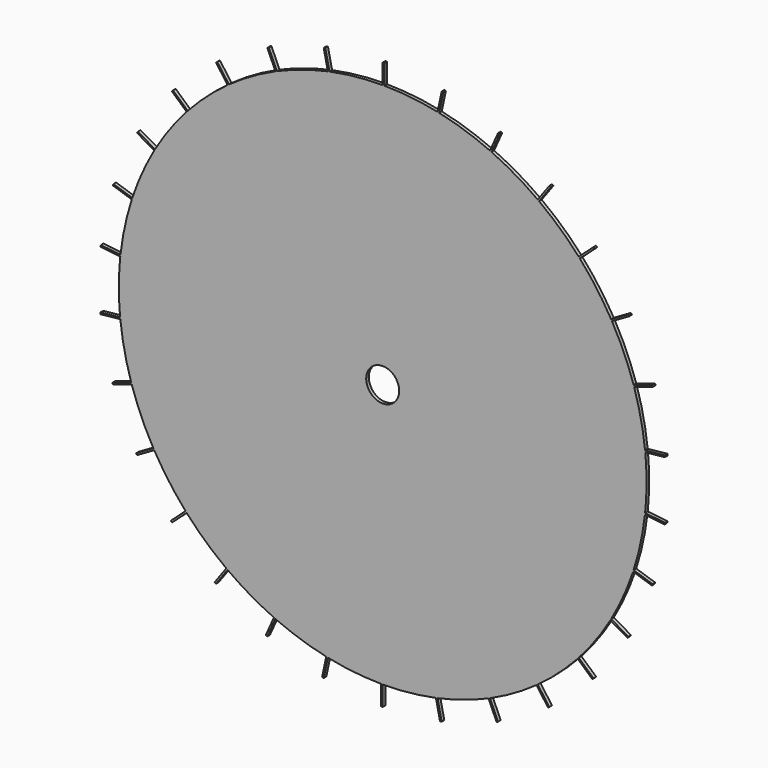
from build123d import *

# Parameters (mm, degrees)
F1_DEPTH = 1.27


with BuildPart() as f1:
    # F0 (on Front) → F1 (new body)
    with BuildSketch(Plane.XZ):
        with BuildLine():
            Line((0.635, 109.2315465212), (0, 109.2315465212))
            Line((0, 109.2315465212), (0, 101.6))
            ThreePointArc((0, 101.6), (0.3175015503, 101.5995039002), (0.635, 101.5980156056))
            Line((0.635, 101.5980156056), (0.635, 109.2315465212))
        make_face()
        with BuildLine():
            ThreePointArc((0.635, 101.5980156056), (0.3175015503, 101.5995039002), (0, 101.6))
            Line((0, 101.6), (0, 92.9539054632))
            Line((0, 92.9539054632), (0.635, 92.9539054632))
            Line((0.635, 92.9539054632), (0.635, 101.5980156056))
        make_face()
        with BuildLine():
            Line((0, 92.9539054632), (0, 101.6))
            ThreePointArc((0, 101.6), (-10.3042777678, 101.0761191364), (-20.5022914818, 99.5098791276))
            Line((-20.5022914818, 99.5098791276), (-18.7050799265, 91.0546635314))
            Line((-18.7050799265, 91.0546635314), (-19.326203653, 90.9226396077))
            Line((-19.326203653, 90.9226396077), (-21.1238277871, 99.3797962346))
            ThreePointArc((-21.1238277871, 99.3797962346), (-31.0940114069, 96.7249836114), (-40.743534445, 93.0726834304))
            Line((-40.743534445, 93.0726834304), (-37.2276581033, 85.1758958744))
            Line((-37.2276581033, 85.1758958744), (-37.8077594689, 84.9176181061))
            Line((-37.8077594689, 84.9176181061), (-41.3244429365, 92.8162184965))
            ThreePointArc((-41.3244429365, 92.8162184965), (-50.5247875418, 88.1465021646), (-59.2040894437, 82.5677648549))
            Line((-59.2040894437, 82.5677648549), (-54.1232089828, 75.5745328485))
            Line((-54.1232089828, 75.5745328485), (-54.6369347743, 75.2012892133))
            Line((-54.6369347743, 75.2012892133), (-59.7189816329, 82.1961266285))
            ThreePointArc((-59.7189816329, 82.1961266285), (-67.7473880163, 75.7155955994), (-75.0771416411, 68.4542387512))
            Line((-75.0771416411, 68.4542387512), (-68.6533159179, 62.6702000902))
            Line((-68.6533159179, 62.6702000902), (-69.0782138529, 62.198303126))
            Line((-69.0782138529, 62.198303126), (-75.5035142685, 67.9836696061))
            ThreePointArc((-75.5035142685, 67.9836696061), (-82.0091025465, 59.9755541827), (-87.6689624886, 51.3489339342))
            Line((-87.6689624886, 51.3489339342), (-80.1829435121, 47.026878863))
            Line((-80.1829435121, 47.026878863), (-80.5004435121, 46.4769527316))
            Line((-80.5004435121, 46.4769527316), (-87.9881810245, 50.8))
            ThreePointArc((-87.9881810245, 50.8), (-92.686625772, 41.6142932536), (-96.429228993, 31.9994343048))
            Line((-96.429228993, 31.9994343048), (-88.2081917144, 29.3282573695))
            Line((-88.2081917144, 29.3282573695), (-88.4044175059, 28.7243364817))
            Line((-88.4044175059, 28.7243364817), (-96.6273420556, 31.3961266285))
            ThreePointArc((-96.6273420556, 31.3961266285), (-99.3132986916, 21.4342880218), (-100.9750754716, 11.2514058459))
            Line((-100.9750754716, 11.2514058459), (-92.378318669, 10.3478502964))
            Line((-92.378318669, 10.3478502964), (-92.4446942432, 9.7163288928))
            Line((-92.4446942432, 9.7163288928), (-101.0434245694, 10.620091868))
            ThreePointArc((-101.0434245694, 10.620091868), (-101.4607607311, 5.3173331543), (-101.6, 0))
            Line((-101.6, 0), (-6.35, 0))
            ThreePointArc((-6.35, 0), (-4.4901280605, 4.4901280605), (0, 6.35))
            Line((0, 6.35), (0, 92.9539054632))
        make_face()
        with BuildLine():
            Line((0.635, 92.9539054632), (0, 92.9539054632))
            Line((0, 92.9539054632), (0, 6.35))
            ThreePointArc((0, 6.35), (4.4901280605, 4.4901280605), (6.35, 0))
            Line((6.35, 0), (101.6, 0))
            ThreePointArc((101.6, 0), (101.4768820584, 5.0002407649), (101.1078266199, 9.9883630387))
            Line((101.1078266199, 9.9883630387), (92.5110698173, 9.0848074892))
            Line((92.5110698173, 9.0848074892), (92.4446942432, 9.7163288928))
            Line((92.4446942432, 9.7163288928), (101.0434245694, 10.620091868))
            ThreePointArc((101.0434245694, 10.620091868), (99.4453232599, 20.8131612625), (96.8216805758, 30.7915925291))
            Line((96.8216805758, 30.7915925291), (88.6006432973, 28.1204155938))
            Line((88.6006432973, 28.1204155938), (88.4044175059, 28.7243364817))
            Line((88.4044175059, 28.7243364817), (96.6273420556, 31.3961266285))
            ThreePointArc((96.6273420556, 31.3961266285), (92.9449048015, 41.0341890554), (88.3039624886, 50.2490816714))
            Line((88.3039624886, 50.2490816714), (80.8179435121, 45.9270266002))
            Line((80.8179435121, 45.9270266002), (80.5004435121, 46.4769527316))
            Line((80.5004435121, 46.4769527316), (87.9881810245, 50.8))
            ThreePointArc((87.9881810245, 50.8), (82.3823480042, 59.4618258828), (75.9269375111, 67.5104448229))
            Line((75.9269375111, 67.5104448229), (69.5031117879, 61.7264061618))
            Line((69.5031117879, 61.7264061618), (69.0782138529, 62.198303126))
            Line((69.0782138529, 62.198303126), (75.5035142685, 67.9836696061))
            ThreePointArc((75.5035142685, 67.9836696061), (68.2192872847, 75.2906955896), (60.2315410266, 81.8212775845))
            Line((60.2315410266, 81.8212775845), (55.1506605657, 74.8280455781))
            Line((55.1506605657, 74.8280455781), (54.6369347743, 75.2012892133))
            Line((54.6369347743, 75.2012892133), (59.7189816329, 82.1961266285))
            ThreePointArc((59.7189816329, 82.1961266285), (51.0747163584, 87.8290006143), (41.9037371762, 92.5561278937))
            Line((41.9037371762, 92.5561278937), (38.3878608345, 84.6593403377))
            Line((38.3878608345, 84.6593403377), (37.8077594689, 84.9176181061))
            Line((37.8077594689, 84.9176181061), (41.3244429365, 92.8162184965))
            ThreePointArc((41.3244429365, 92.8162184965), (31.6979352436, 96.5287568618), (21.7445389348, 99.2458312803))
            Line((21.7445389348, 99.2458312803), (19.9473273794, 90.790615684))
            Line((19.9473273794, 90.790615684), (19.326203653, 90.9226396077))
            Line((19.326203653, 90.9226396077), (21.1238277871, 99.3797962346))
            ThreePointArc((21.1238277871, 99.3797962346), (10.9358022551, 101.0097432382), (0.635, 101.5980156056))
            Line((0.635, 101.5980156056), (0.635, 92.9539054632))
        make_face()
        with BuildLine():
            Line((-18.7050799265, 91.0546635314), (-20.5022914818, 99.5098791276))
            ThreePointArc((-20.5022914818, 99.5098791276), (-20.8131612625, 99.4453232599), (-21.1238277871, 99.3797962346))
            Line((-21.1238277871, 99.3797962346), (-19.326203653, 90.9226396077))
            Line((-19.326203653, 90.9226396077), (-18.7050799265, 91.0546635314))
        make_face()
        with BuildLine():
            ThreePointArc((-21.1238277871, 99.3797962346), (-20.8131612625, 99.4453232599), (-20.5022914818, 99.5098791276))
            Line((-20.5022914818, 99.5098791276), (-22.0893918014, 106.9765990778))
            Line((-22.0893918014, 106.9765990778), (-22.7105155279, 106.8445751541))
            Line((-22.7105155279, 106.8445751541), (-21.1238277871, 99.3797962346))
        make_face()
        with BuildLine():
            Line((22.7105155279, 106.8445751541), (21.1238277871, 99.3797962346))
            ThreePointArc((21.1238277871, 99.3797962346), (21.4342880218, 99.3132986916), (21.7445389348, 99.2458312803))
            Line((21.7445389348, 99.2458312803), (23.3316392543, 106.7125512305))
            Line((23.3316392543, 106.7125512305), (22.7105155279, 106.8445751541))
        make_face()
        with BuildLine():
            ThreePointArc((21.7445389348, 99.2458312803), (21.4342880218, 99.3132986916), (21.1238277871, 99.3797962346))
            Line((21.1238277871, 99.3797962346), (19.326203653, 90.9226396077))
            Line((19.326203653, 90.9226396077), (19.9473273794, 90.790615684))
            Line((19.9473273794, 90.790615684), (21.7445389348, 99.2458312803))
        make_face()
        with BuildLine():
            Line((101.6, 0), (6.35, 0))
            ThreePointArc((6.35, 0), (4.4901280605, -4.4901280605), (0, -6.35))
            Line((0, -6.35), (0, -92.9539054632))
            Line((0, -92.9539054632), (0, -101.6))
            ThreePointArc((0, -101.6), (10.3042777678, -101.0761191364), (20.5022914818, -99.5098791276))
            Line((20.5022914818, -99.5098791276), (18.7050799265, -91.0546635314))
            Line((18.7050799265, -91.0546635314), (19.326203653, -90.9226396077))
            Line((19.326203653, -90.9226396077), (21.1238277871, -99.3797962346))
            ThreePointArc((21.1238277871, -99.3797962346), (31.0940114069, -96.7249836114), (40.743534445, -93.0726834304))
            Line((40.743534445, -93.0726834304), (37.2276581033, -85.1758958744))
            Line((37.2276581033, -85.1758958744), (37.8077594689, -84.9176181061))
            Line((37.8077594689, -84.9176181061), (41.3244429365, -92.8162184965))
            ThreePointArc((41.3244429365, -92.8162184965), (50.5247875418, -88.1465021646), (59.2040894437, -82.5677648549))
            Line((59.2040894437, -82.5677648549), (54.1232089828, -75.5745328485))
            Line((54.1232089828, -75.5745328485), (54.6369347743, -75.2012892133))
            Line((54.6369347743, -75.2012892133), (59.7189816329, -82.1961266285))
            ThreePointArc((59.7189816329, -82.1961266285), (67.7473880163, -75.7155955994), (75.0771416411, -68.4542387512))
            Line((75.0771416411, -68.4542387512), (68.6533159179, -62.6702000902))
            Line((68.6533159179, -62.6702000902), (69.0782138529, -62.198303126))
            Line((69.0782138529, -62.198303126), (75.5035142685, -67.9836696061))
            ThreePointArc((75.5035142685, -67.9836696061), (82.0091025465, -59.9755541827), (87.6689624886, -51.3489339342))
            Line((87.6689624886, -51.3489339342), (80.1829435121, -47.026878863))
            Line((80.1829435121, -47.026878863), (80.5004435121, -46.4769527316))
            Line((80.5004435121, -46.4769527316), (87.9881810245, -50.8))
            ThreePointArc((87.9881810245, -50.8), (92.686625772, -41.6142932536), (96.429228993, -31.9994343048))
            Line((96.429228993, -31.9994343048), (88.2081917144, -29.3282573695))
            Line((88.2081917144, -29.3282573695), (88.4044175059, -28.7243364817))
            Line((88.4044175059, -28.7243364817), (96.6273420556, -31.3961266285))
            ThreePointArc((96.6273420556, -31.3961266285), (99.3132986916, -21.4342880218), (100.9750754716, -11.2514058459))
            Line((100.9750754716, -11.2514058459), (92.378318669, -10.3478502964))
            Line((92.378318669, -10.3478502964), (92.4446942432, -9.7163288928))
            Line((92.4446942432, -9.7163288928), (101.0434245694, -10.620091868))
            ThreePointArc((101.0434245694, -10.620091868), (101.4607607311, -5.3173331543), (101.6, 0))
        make_face()
        with BuildLine():
            ThreePointArc((0, -6.35), (-4.4901280605, -4.4901280605), (-6.35, 0))
            Line((-6.35, 0), (-101.6, 0))
            ThreePointArc((-101.6, 0), (-101.4768820584, -5.0002407649), (-101.1078266199, -9.9883630387))
            Line((-101.1078266199, -9.9883630387), (-92.5110698173, -9.0848074892))
            Line((-92.5110698173, -9.0848074892), (-92.4446942432, -9.7163288928))
            Line((-92.4446942432, -9.7163288928), (-101.0434245694, -10.620091868))
            ThreePointArc((-101.0434245694, -10.620091868), (-99.4453232599, -20.8131612625), (-96.8216805758, -30.7915925291))
            Line((-96.8216805758, -30.7915925291), (-88.6006432973, -28.1204155938))
            Line((-88.6006432973, -28.1204155938), (-88.4044175059, -28.7243364817))
            Line((-88.4044175059, -28.7243364817), (-96.6273420556, -31.3961266285))
            ThreePointArc((-96.6273420556, -31.3961266285), (-92.9449048015, -41.0341890554), (-88.3039624886, -50.2490816714))
            Line((-88.3039624886, -50.2490816714), (-80.8179435121, -45.9270266002))
            Line((-80.8179435121, -45.9270266002), (-80.5004435121, -46.4769527316))
            Line((-80.5004435121, -46.4769527316), (-87.9881810245, -50.8))
            ThreePointArc((-87.9881810245, -50.8), (-82.3823480042, -59.4618258828), (-75.9269375111, -67.5104448229))
            Line((-75.9269375111, -67.5104448229), (-69.5031117879, -61.7264061618))
            Line((-69.5031117879, -61.7264061618), (-69.0782138529, -62.198303126))
            Line((-69.0782138529, -62.198303126), (-75.5035142685, -67.9836696061))
            ThreePointArc((-75.5035142685, -67.9836696061), (-68.2192872847, -75.2906955896), (-60.2315410266, -81.8212775845))
            Line((-60.2315410266, -81.8212775845), (-55.1506605657, -74.8280455781))
            Line((-55.1506605657, -74.8280455781), (-54.6369347743, -75.2012892133))
            Line((-54.6369347743, -75.2012892133), (-59.7189816329, -82.1961266285))
            ThreePointArc((-59.7189816329, -82.1961266285), (-51.0747163584, -87.8290006143), (-41.9037371762, -92.5561278937))
            Line((-41.9037371762, -92.5561278937), (-38.3878608345, -84.6593403377))
            Line((-38.3878608345, -84.6593403377), (-37.8077594689, -84.9176181061))
            Line((-37.8077594689, -84.9176181061), (-41.3244429365, -92.8162184965))
            ThreePointArc((-41.3244429365, -92.8162184965), (-31.6979352436, -96.5287568618), (-21.7445389348, -99.2458312803))
            Line((-21.7445389348, -99.2458312803), (-19.9473273794, -90.790615684))
            Line((-19.9473273794, -90.790615684), (-19.326203653, -90.9226396077))
            Line((-19.326203653, -90.9226396077), (-21.1238277871, -99.3797962346))
            ThreePointArc((-21.1238277871, -99.3797962346), (-10.935802255, -101.0097432382), (-0.635, -101.5980156056))
            Line((-0.635, -101.5980156056), (-0.635, -92.9539054632))
            Line((-0.635, -92.9539054632), (0, -92.9539054632))
            Line((0, -92.9539054632), (0, -6.35))
        make_face()
        with BuildLine():
            Line((-37.2276581033, 85.1758958744), (-40.743534445, 93.0726834304))
            ThreePointArc((-40.743534445, 93.0726834304), (-41.0341890554, 92.9449048015), (-41.3244429365, 92.8162184965))
            Line((-41.3244429365, 92.8162184965), (-37.8077594689, 84.9176181061))
            Line((-37.8077594689, 84.9176181061), (-37.2276581033, 85.1758958744))
        make_face()
        with BuildLine():
            ThreePointArc((-41.3244429365, 92.8162184965), (-41.0341890554, 92.9449048015), (-40.743534445, 93.0726834304))
            Line((-40.743534445, 93.0726834304), (-43.8483711844, 100.0462609241))
            Line((-43.8483711844, 100.0462609241), (-44.42847255, 99.7879831557))
            Line((-44.42847255, 99.7879831557), (-41.3244429365, 92.8162184965))
        make_face()
        with BuildLine():
            Line((44.42847255, 99.7879831557), (41.3244429365, 92.8162184965))
            ThreePointArc((41.3244429365, 92.8162184965), (41.6142932536, 92.686625772), (41.9037371762, 92.5561278937))
            Line((41.9037371762, 92.5561278937), (45.0085739156, 99.5297053874))
            Line((45.0085739156, 99.5297053874), (44.42847255, 99.7879831557))
        make_face()
        with BuildLine():
            ThreePointArc((41.9037371762, 92.5561278937), (41.6142932536, 92.686625772), (41.3244429365, 92.8162184965))
            Line((41.3244429365, 92.8162184965), (37.8077594689, 84.9176181061))
            Line((37.8077594689, 84.9176181061), (38.3878608345, 84.6593403377))
            Line((38.3878608345, 84.6593403377), (41.9037371762, 92.5561278937))
        make_face()
        with BuildLine():
            Line((0, -101.6), (0, -92.9539054632))
            Line((0, -92.9539054632), (-0.635, -92.9539054632))
            Line((-0.635, -92.9539054632), (-0.635, -101.5980156056))
            ThreePointArc((-0.635, -101.5980156056), (-0.3175015503, -101.5995039002), (0, -101.6))
        make_face()
        with BuildLine():
            Line((92.5110698173, 9.0848074892), (101.1078266199, 9.9883630387))
            ThreePointArc((101.1078266199, 9.9883630387), (101.0761191364, 10.3042777678), (101.0434245694, 10.620091868))
            Line((101.0434245694, 10.620091868), (92.4446942432, 9.7163288928))
            Line((92.4446942432, 9.7163288928), (92.5110698173, 9.0848074892))
        make_face()
        with BuildLine():
            ThreePointArc((101.0434245694, 10.620091868), (101.0761191364, 10.3042777678), (101.1078266199, 9.9883630387))
            Line((101.1078266199, 9.9883630387), (108.6995402544, 10.7862842946))
            Line((108.6995402544, 10.7862842946), (108.6331646803, 11.4178056982))
            Line((108.6331646803, 11.4178056982), (101.0434245694, 10.620091868))
        make_face()
        with BuildLine():
            Line((108.6331646803, -11.4178056982), (101.0434245694, -10.620091868))
            ThreePointArc((101.0434245694, -10.620091868), (101.0097432382, -10.935802255), (100.9750754716, -11.2514058459))
            Line((100.9750754716, -11.2514058459), (108.5667891061, -12.0493271018))
            Line((108.5667891061, -12.0493271018), (108.6331646803, -11.4178056982))
        make_face()
        with BuildLine():
            ThreePointArc((100.9750754716, -11.2514058459), (101.0097432382, -10.935802255), (101.0434245694, -10.620091868))
            Line((101.0434245694, -10.620091868), (92.4446942432, -9.7163288928))
            Line((92.4446942432, -9.7163288928), (92.378318669, -10.3478502964))
            Line((92.378318669, -10.3478502964), (100.9750754716, -11.2514058459))
        make_face()
        with BuildLine():
            Line((-108.6331646803, 11.4178056982), (-101.0434245694, 10.620091868))
            ThreePointArc((-101.0434245694, 10.620091868), (-101.0097432382, 10.935802255), (-100.9750754716, 11.2514058459))
            Line((-100.9750754716, 11.2514058459), (-108.5667891061, 12.0493271018))
            Line((-108.5667891061, 12.0493271018), (-108.6331646803, 11.4178056982))
        make_face()
        with BuildLine():
            ThreePointArc((-100.9750754716, 11.2514058459), (-101.0097432382, 10.935802255), (-101.0434245694, 10.620091868))
            Line((-101.0434245694, 10.620091868), (-92.4446942432, 9.7163288928))
            Line((-92.4446942432, 9.7163288928), (-92.378318669, 10.3478502964))
            Line((-92.378318669, 10.3478502964), (-100.9750754716, 11.2514058459))
        make_face()
        with BuildLine():
            Line((-92.5110698173, -9.0848074892), (-101.1078266199, -9.9883630387))
            ThreePointArc((-101.1078266199, -9.9883630387), (-101.0761191364, -10.3042777678), (-101.0434245694, -10.620091868))
            Line((-101.0434245694, -10.620091868), (-92.4446942432, -9.7163288928))
            Line((-92.4446942432, -9.7163288928), (-92.5110698173, -9.0848074892))
        make_face()
        with BuildLine():
            ThreePointArc((-101.0434245694, -10.620091868), (-101.0761191364, -10.3042777678), (-101.1078266199, -9.9883630387))
            Line((-101.1078266199, -9.9883630387), (-108.6995402544, -10.7862842946))
            Line((-108.6995402544, -10.7862842946), (-108.6331646803, -11.4178056982))
            Line((-108.6331646803, -11.4178056982), (-101.0434245694, -10.620091868))
        make_face()
        with BuildLine():
            Line((-54.1232089828, 75.5745328485), (-59.2040894437, 82.5677648549))
            ThreePointArc((-59.2040894437, 82.5677648549), (-59.4618258828, 82.3823480042), (-59.7189816329, 82.1961266285))
            Line((-59.7189816329, 82.1961266285), (-54.6369347743, 75.2012892133))
            Line((-54.6369347743, 75.2012892133), (-54.1232089828, 75.5745328485))
        make_face()
        with BuildLine():
            ThreePointArc((-59.7189816329, 82.1961266285), (-59.4618258828, 82.3823480042), (-59.2040894437, 82.5677648549))
            Line((-59.2040894437, 82.5677648549), (-63.6909663388, 88.7434210927))
            Line((-63.6909663388, 88.7434210927), (-64.2046921303, 88.3701774575))
            Line((-64.2046921303, 88.3701774575), (-59.7189816329, 82.1961266285))
        make_face()
        with BuildLine():
            Line((0, -109.2315465212), (0, -101.6))
            ThreePointArc((0, -101.6), (-0.3175015503, -101.5995039002), (-0.635, -101.5980156056))
            Line((-0.635, -101.5980156056), (-0.635, -109.2315465212))
            Line((-0.635, -109.2315465212), (0, -109.2315465212))
        make_face()
        with BuildLine():
            Line((64.2046921303, 88.3701774575), (59.7189816329, 82.1961266285))
            ThreePointArc((59.7189816329, 82.1961266285), (59.9755541827, 82.0091025465), (60.2315410266, 81.8212775845))
            Line((60.2315410266, 81.8212775845), (64.7184179217, 87.9969338223))
            Line((64.7184179217, 87.9969338223), (64.2046921303, 88.3701774575))
        make_face()
        with BuildLine():
            ThreePointArc((60.2315410266, 81.8212775845), (59.9755541827, 82.0091025465), (59.7189816329, 82.1961266285))
            Line((59.7189816329, 82.1961266285), (54.6369347743, 75.2012892133))
            Line((54.6369347743, 75.2012892133), (55.1506605657, 74.8280455781))
            Line((55.1506605657, 74.8280455781), (60.2315410266, 81.8212775845))
        make_face()
        with BuildLine():
            Line((18.7050799265, -91.0546635314), (20.5022914818, -99.5098791276))
            ThreePointArc((20.5022914818, -99.5098791276), (20.8131612625, -99.4453232599), (21.1238277871, -99.3797962346))
            Line((21.1238277871, -99.3797962346), (19.326203653, -90.9226396077))
            Line((19.326203653, -90.9226396077), (18.7050799265, -91.0546635314))
        make_face()
        with BuildLine():
            ThreePointArc((21.1238277871, -99.3797962346), (20.8131612625, -99.4453232599), (20.5022914818, -99.5098791276))
            Line((20.5022914818, -99.5098791276), (22.0893918014, -106.9765990778))
            Line((22.0893918014, -106.9765990778), (22.7105155279, -106.8445751541))
            Line((22.7105155279, -106.8445751541), (21.1238277871, -99.3797962346))
        make_face()
        with BuildLine():
            Line((88.6006432973, 28.1204155938), (96.8216805758, 30.7915925291))
            ThreePointArc((96.8216805758, 30.7915925291), (96.7249836114, 31.0940114069), (96.6273420556, 31.3961266285))
            Line((96.6273420556, 31.3961266285), (88.4044175059, 28.7243364817))
            Line((88.4044175059, 28.7243364817), (88.6006432973, 28.1204155938))
        make_face()
        with BuildLine():
            ThreePointArc((96.6273420556, 31.3961266285), (96.7249836114, 31.0940114069), (96.8216805758, 30.7915925291))
            Line((96.8216805758, 30.7915925291), (104.0815998954, 33.1504833091))
            Line((104.0815998954, 33.1504833091), (103.885374104, 33.7544041969))
            Line((103.885374104, 33.7544041969), (96.6273420556, 31.3961266285))
        make_face()
        with BuildLine():
            Line((103.885374104, -33.7544041969), (96.6273420556, -31.3961266285))
            ThreePointArc((96.6273420556, -31.3961266285), (96.5287568618, -31.6979352436), (96.429228993, -31.9994343048))
            Line((96.429228993, -31.9994343048), (103.6891483125, -34.3583250848))
            Line((103.6891483125, -34.3583250848), (103.885374104, -33.7544041969))
        make_face()
        with BuildLine():
            ThreePointArc((96.429228993, -31.9994343048), (96.5287568618, -31.6979352436), (96.6273420556, -31.3961266285))
            Line((96.6273420556, -31.3961266285), (88.4044175059, -28.7243364817))
            Line((88.4044175059, -28.7243364817), (88.2081917144, -29.3282573695))
            Line((88.2081917144, -29.3282573695), (96.429228993, -31.9994343048))
        make_face()
        with BuildLine():
            Line((-103.885374104, 33.7544041969), (-96.6273420556, 31.3961266285))
            ThreePointArc((-96.6273420556, 31.3961266285), (-96.5287568618, 31.6979352436), (-96.429228993, 31.9994343048))
            Line((-96.429228993, 31.9994343048), (-103.6891483125, 34.3583250848))
            Line((-103.6891483125, 34.3583250848), (-103.885374104, 33.7544041969))
        make_face()
        with BuildLine():
            ThreePointArc((-96.429228993, 31.9994343048), (-96.5287568618, 31.6979352436), (-96.6273420556, 31.3961266285))
            Line((-96.6273420556, 31.3961266285), (-88.4044175059, 28.7243364817))
            Line((-88.4044175059, 28.7243364817), (-88.2081917144, 29.3282573695))
            Line((-88.2081917144, 29.3282573695), (-96.429228993, 31.9994343048))
        make_face()
        with BuildLine():
            Line((-88.6006432973, -28.1204155938), (-96.8216805758, -30.7915925291))
            ThreePointArc((-96.8216805758, -30.7915925291), (-96.7249836114, -31.0940114069), (-96.6273420556, -31.3961266285))
            Line((-96.6273420556, -31.3961266285), (-88.4044175059, -28.7243364817))
            Line((-88.4044175059, -28.7243364817), (-88.6006432973, -28.1204155938))
        make_face()
        with BuildLine():
            ThreePointArc((-96.6273420556, -31.3961266285), (-96.7249836114, -31.0940114069), (-96.8216805758, -30.7915925291))
            Line((-96.8216805758, -30.7915925291), (-104.0815998954, -33.1504833091))
            Line((-104.0815998954, -33.1504833091), (-103.885374104, -33.7544041969))
            Line((-103.885374104, -33.7544041969), (-96.6273420556, -31.3961266285))
        make_face()
        with BuildLine():
            Line((-68.6533159179, 62.6702000902), (-75.0771416411, 68.4542387512))
            ThreePointArc((-75.0771416411, 68.4542387512), (-75.2906955896, 68.2192872847), (-75.5035142685, 67.9836696061))
            Line((-75.5035142685, 67.9836696061), (-69.0782138529, 62.198303126))
            Line((-69.0782138529, 62.198303126), (-68.6533159179, 62.6702000902))
        make_face()
        with BuildLine():
            ThreePointArc((-75.5035142685, 67.9836696061), (-75.2906955896, 68.2192872847), (-75.0771416411, 68.4542387512))
            Line((-75.0771416411, 68.4542387512), (-80.7499606411, 73.5620679214))
            Line((-80.7499606411, 73.5620679214), (-81.1748585761, 73.0901709572))
            Line((-81.1748585761, 73.0901709572), (-75.5035142685, 67.9836696061))
        make_face()
        with BuildLine():
            Line((-22.7105155279, -106.8445751541), (-21.1238277871, -99.3797962346))
            ThreePointArc((-21.1238277871, -99.3797962346), (-21.4342880218, -99.3132986916), (-21.7445389348, -99.2458312803))
            Line((-21.7445389348, -99.2458312803), (-23.3316392543, -106.7125512305))
            Line((-23.3316392543, -106.7125512305), (-22.7105155279, -106.8445751541))
        make_face()
        with BuildLine():
            ThreePointArc((-21.7445389348, -99.2458312803), (-21.4342880218, -99.3132986916), (-21.1238277871, -99.3797962346))
            Line((-21.1238277871, -99.3797962346), (-19.326203653, -90.9226396077))
            Line((-19.326203653, -90.9226396077), (-19.9473273794, -90.790615684))
            Line((-19.9473273794, -90.790615684), (-21.7445389348, -99.2458312803))
        make_face()
        with BuildLine():
            Line((81.1748585761, 73.0901709572), (75.5035142685, 67.9836696061))
            ThreePointArc((75.5035142685, 67.9836696061), (75.7155955994, 67.7473880163), (75.9269375111, 67.5104448229))
            Line((75.9269375111, 67.5104448229), (81.5997565112, 72.6182739931))
            Line((81.5997565112, 72.6182739931), (81.1748585761, 73.0901709572))
        make_face()
        with BuildLine():
            ThreePointArc((75.9269375111, 67.5104448229), (75.7155955994, 67.7473880163), (75.5035142685, 67.9836696061))
            Line((75.5035142685, 67.9836696061), (69.0782138529, 62.198303126))
            Line((69.0782138529, 62.198303126), (69.5031117879, 61.7264061618))
            Line((69.5031117879, 61.7264061618), (75.9269375111, 67.5104448229))
        make_face()
        with BuildLine():
            Line((37.2276581033, -85.1758958744), (40.743534445, -93.0726834304))
            ThreePointArc((40.743534445, -93.0726834304), (41.0341890554, -92.9449048015), (41.3244429365, -92.8162184965))
            Line((41.3244429365, -92.8162184965), (37.8077594689, -84.9176181061))
            Line((37.8077594689, -84.9176181061), (37.2276581033, -85.1758958744))
        make_face()
        with BuildLine():
            ThreePointArc((41.3244429365, -92.8162184965), (41.0341890554, -92.9449048015), (40.743534445, -93.0726834304))
            Line((40.743534445, -93.0726834304), (43.8483711844, -100.0462609241))
            Line((43.8483711844, -100.0462609241), (44.42847255, -99.7879831557))
            Line((44.42847255, -99.7879831557), (41.3244429365, -92.8162184965))
        make_face()
        with BuildLine():
            Line((80.8179435121, 45.9270266002), (88.3039624886, 50.2490816714))
            ThreePointArc((88.3039624886, 50.2490816714), (88.1465021646, 50.5247875418), (87.9881810245, 50.8))
            Line((87.9881810245, 50.8), (80.5004435121, 46.4769527316))
            Line((80.5004435121, 46.4769527316), (80.8179435121, 45.9270266002))
        make_face()
        with BuildLine():
            ThreePointArc((87.9881810245, 50.8), (88.1465021646, 50.5247875418), (88.3039624886, 50.2490816714))
            Line((88.3039624886, 50.2490816714), (94.914794182, 54.0658471292))
            Line((94.914794182, 54.0658471292), (94.597294182, 54.6157732606))
            Line((94.597294182, 54.6157732606), (87.9881810245, 50.8))
        make_face()
        with BuildLine():
            Line((94.597294182, -54.6157732606), (87.9881810245, -50.8))
            ThreePointArc((87.9881810245, -50.8), (87.8290006143, -51.0747163584), (87.6689624886, -51.3489339342))
            Line((87.6689624886, -51.3489339342), (94.279794182, -55.165699392))
            Line((94.279794182, -55.165699392), (94.597294182, -54.6157732606))
        make_face()
        with BuildLine():
            ThreePointArc((87.6689624886, -51.3489339342), (87.8290006143, -51.0747163584), (87.9881810245, -50.8))
            Line((87.9881810245, -50.8), (80.5004435121, -46.4769527316))
            Line((80.5004435121, -46.4769527316), (80.1829435121, -47.026878863))
            Line((80.1829435121, -47.026878863), (87.6689624886, -51.3489339342))
        make_face()
        with BuildLine():
            Line((-94.597294182, 54.6157732606), (-87.9881810245, 50.8))
            ThreePointArc((-87.9881810245, 50.8), (-87.8290006143, 51.0747163584), (-87.6689624886, 51.3489339342))
            Line((-87.6689624886, 51.3489339342), (-94.279794182, 55.165699392))
            Line((-94.279794182, 55.165699392), (-94.597294182, 54.6157732606))
        make_face()
        with BuildLine():
            ThreePointArc((-87.6689624886, 51.3489339342), (-87.8290006143, 51.0747163584), (-87.9881810245, 50.8))
            Line((-87.9881810245, 50.8), (-80.5004435121, 46.4769527316))
            Line((-80.5004435121, 46.4769527316), (-80.1829435121, 47.026878863))
            Line((-80.1829435121, 47.026878863), (-87.6689624886, 51.3489339342))
        make_face()
        with BuildLine():
            Line((-80.8179435121, -45.9270266002), (-88.3039624886, -50.2490816714))
            ThreePointArc((-88.3039624886, -50.2490816714), (-88.1465021646, -50.5247875418), (-87.9881810245, -50.8))
            Line((-87.9881810245, -50.8), (-80.5004435121, -46.4769527316))
            Line((-80.5004435121, -46.4769527316), (-80.8179435121, -45.9270266002))
        make_face()
        with BuildLine():
            ThreePointArc((-87.9881810245, -50.8), (-88.1465021646, -50.5247875418), (-88.3039624886, -50.2490816714))
            Line((-88.3039624886, -50.2490816714), (-94.914794182, -54.0658471292))
            Line((-94.914794182, -54.0658471292), (-94.597294182, -54.6157732606))
            Line((-94.597294182, -54.6157732606), (-87.9881810245, -50.8))
        make_face()
        with BuildLine():
            Line((-44.42847255, -99.7879831557), (-41.3244429365, -92.8162184965))
            ThreePointArc((-41.3244429365, -92.8162184965), (-41.6142932536, -92.686625772), (-41.9037371762, -92.5561278937))
            Line((-41.9037371762, -92.5561278937), (-45.0085739156, -99.5297053874))
            Line((-45.0085739156, -99.5297053874), (-44.42847255, -99.7879831557))
        make_face()
        with BuildLine():
            ThreePointArc((-41.9037371762, -92.5561278937), (-41.6142932536, -92.686625772), (-41.3244429365, -92.8162184965))
            Line((-41.3244429365, -92.8162184965), (-37.8077594689, -84.9176181061))
            Line((-37.8077594689, -84.9176181061), (-38.3878608345, -84.6593403377))
            Line((-38.3878608345, -84.6593403377), (-41.9037371762, -92.5561278937))
        make_face()
        with BuildLine():
            Line((54.1232089828, -75.5745328485), (59.2040894437, -82.5677648549))
            ThreePointArc((59.2040894437, -82.5677648549), (59.4618258828, -82.3823480042), (59.7189816329, -82.1961266285))
            Line((59.7189816329, -82.1961266285), (54.6369347743, -75.2012892133))
            Line((54.6369347743, -75.2012892133), (54.1232089828, -75.5745328485))
        make_face()
        with BuildLine():
            ThreePointArc((59.7189816329, -82.1961266285), (59.4618258828, -82.3823480042), (59.2040894437, -82.5677648549))
            Line((59.2040894437, -82.5677648549), (63.6909663388, -88.7434210927))
            Line((63.6909663388, -88.7434210927), (64.2046921303, -88.3701774575))
            Line((64.2046921303, -88.3701774575), (59.7189816329, -82.1961266285))
        make_face()
        with BuildLine():
            Line((81.1748585761, -73.0901709572), (75.5035142685, -67.9836696061))
            ThreePointArc((75.5035142685, -67.9836696061), (75.2906955896, -68.2192872847), (75.0771416411, -68.4542387512))
            Line((75.0771416411, -68.4542387512), (80.7499606411, -73.5620679214))
            Line((80.7499606411, -73.5620679214), (81.1748585761, -73.0901709572))
        make_face()
        with BuildLine():
            ThreePointArc((75.0771416411, -68.4542387512), (75.2906955896, -68.2192872847), (75.5035142685, -67.9836696061))
            Line((75.5035142685, -67.9836696061), (69.0782138529, -62.198303126))
            Line((69.0782138529, -62.198303126), (68.6533159179, -62.6702000902))
            Line((68.6533159179, -62.6702000902), (75.0771416411, -68.4542387512))
        make_face()
        with BuildLine():
            Line((-69.5031117879, -61.7264061618), (-75.9269375111, -67.5104448229))
            ThreePointArc((-75.9269375111, -67.5104448229), (-75.7155955994, -67.7473880163), (-75.5035142685, -67.9836696061))
            Line((-75.5035142685, -67.9836696061), (-69.0782138529, -62.198303126))
            Line((-69.0782138529, -62.198303126), (-69.5031117879, -61.7264061618))
        make_face()
        with BuildLine():
            ThreePointArc((-75.5035142685, -67.9836696061), (-75.7155955994, -67.7473880163), (-75.9269375111, -67.5104448229))
            Line((-75.9269375111, -67.5104448229), (-81.5997565112, -72.6182739931))
            Line((-81.5997565112, -72.6182739931), (-81.1748585761, -73.0901709572))
            Line((-81.1748585761, -73.0901709572), (-75.5035142685, -67.9836696061))
        make_face()
        with BuildLine():
            Line((-64.2046921303, -88.3701774575), (-59.7189816329, -82.1961266285))
            ThreePointArc((-59.7189816329, -82.1961266285), (-59.9755541827, -82.0091025465), (-60.2315410266, -81.8212775845))
            Line((-60.2315410266, -81.8212775845), (-64.7184179217, -87.9969338223))
            Line((-64.7184179217, -87.9969338223), (-64.2046921303, -88.3701774575))
        make_face()
        with BuildLine():
            ThreePointArc((-60.2315410266, -81.8212775845), (-59.9755541827, -82.0091025465), (-59.7189816329, -82.1961266285))
            Line((-59.7189816329, -82.1961266285), (-54.6369347743, -75.2012892133))
            Line((-54.6369347743, -75.2012892133), (-55.1506605657, -74.8280455781))
            Line((-55.1506605657, -74.8280455781), (-60.2315410266, -81.8212775845))
        make_face()
    extrude(amount=F1_DEPTH)


solid = f1.part
